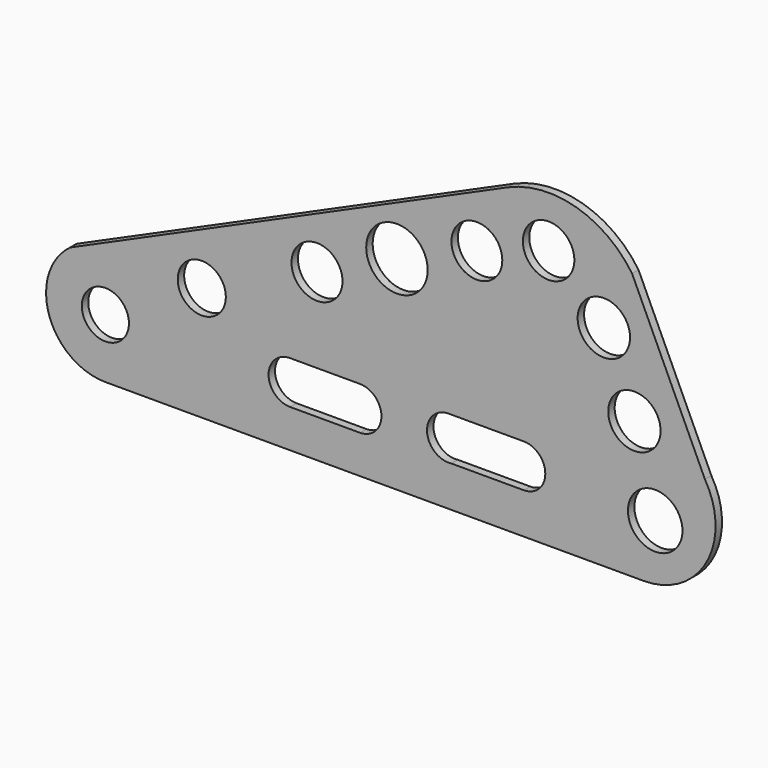
from build123d import *

# Parameters (mm, degrees)
F0_R     = 2.9210225979
F0_R_2   = 2.9829768296
F0_R_3   = 3.380806442
F0_R_4   = 3.2454468052
F0_R_5   = 3.1609872768
F0_R_6   = 3.1209973013
F0_R_7   = 3.2489070305
F0_R_8   = 3.1527870082
F0_R_9   = 3.192535602
F1_DEPTH = 1
F2_D     = 7.62


with BuildPart() as f1:
    # F0 (on Front) → F1 (new body)
    with BuildSketch(Plane.XZ):
        with BuildLine():
            ThreePointArc((-16.3226239383, 13.2621303201), (-18.9326054855, 5.0499501714), (-11.9504919276, 0))
            Line((-11.9504919276, 0), (54.7973737121, 0))
            ThreePointArc((54.7973737121, 0), (62.5615843724, 4.5542054668), (62.3757392168, 13.5536063462))
            Line((62.3757392168, 13.5536063462), (53.3399991691, 33.0824591219))
            ThreePointArc((53.3399991691, 33.0824591219), (46.4083407886, 38.0684739954), (37.891805172, 37.4545902014))
            Line((37.891805172, 37.4545902014), (-16.3226239383, 13.2621303201))
        make_face()
        with Locations((-11.9504919276, 7.351746448)):
            Circle(F0_R, mode=Mode.SUBTRACT)
        with BuildLine():
            Line((19.605576992, 4.7298683785), (10.9462961555, 4.7298683785))
            ThreePointArc((10.9462961555, 4.7298683785), (8.2819026429, 7.394261891), (10.9462961555, 10.0586554036))
            Line((10.9462961555, 10.0586554036), (19.605576992, 10.0586554036))
            ThreePointArc((19.605576992, 10.0586554036), (22.2699705046, 7.394261891), (19.605576992, 4.7298683785))
        make_face(mode=Mode.SUBTRACT)
        with Locations((0, 14.1365574673)):
            Circle(F0_R_2, mode=Mode.SUBTRACT)
        with BuildLine():
            Line((39.9215780199, 5.0629177131), (30.9292469174, 5.0629177131))
            ThreePointArc((30.9292469174, 5.0629177131), (27.9266057398, 7.5500548295), (30.5961985141, 10.3917056695))
            Line((30.5961985141, 10.3917056695), (39.9215780199, 10.3917056695))
            ThreePointArc((39.9215780199, 10.3917056695), (42.5859719981, 7.7273116913), (39.9215780199, 5.0629177131))
        make_face(mode=Mode.SUBTRACT)
        with Locations((56.2107563019, 7.0342049003)):
            Circle(F0_R_3, mode=Mode.SUBTRACT)
        with Locations((53.6314733326, 17.0513112098)):
            Circle(F0_R_4, mode=Mode.SUBTRACT)
        with Locations((14.2822936177, 20.5490160733)):
            Circle(F0_R_5, mode=Mode.SUBTRACT)
        with Locations((24.1924580187, 25.212623179)):
            Circle(F0_R_6, mode=Mode.SUBTRACT)
        with Locations((49.8422943056, 26.014436106)):
            Circle(F0_R_7, mode=Mode.SUBTRACT)
        with Locations((34.1026261449, 29.2932782322)):
            Circle(F0_R_8, mode=Mode.SUBTRACT)
        with Locations((42.9968200828, 32.2080329061)):
            Circle(F0_R_9, mode=Mode.SUBTRACT)
    extrude(amount=F1_DEPTH)

    # F2 (through all)
    with Locations(Plane(origin=(0, 0, 0), x_dir=(1, 0, 0), z_dir=(0, 1, 0))):
        with Locations((24.1924580187, -25.212623179)):
            Hole(F2_D / 2)


solid = f1.part
